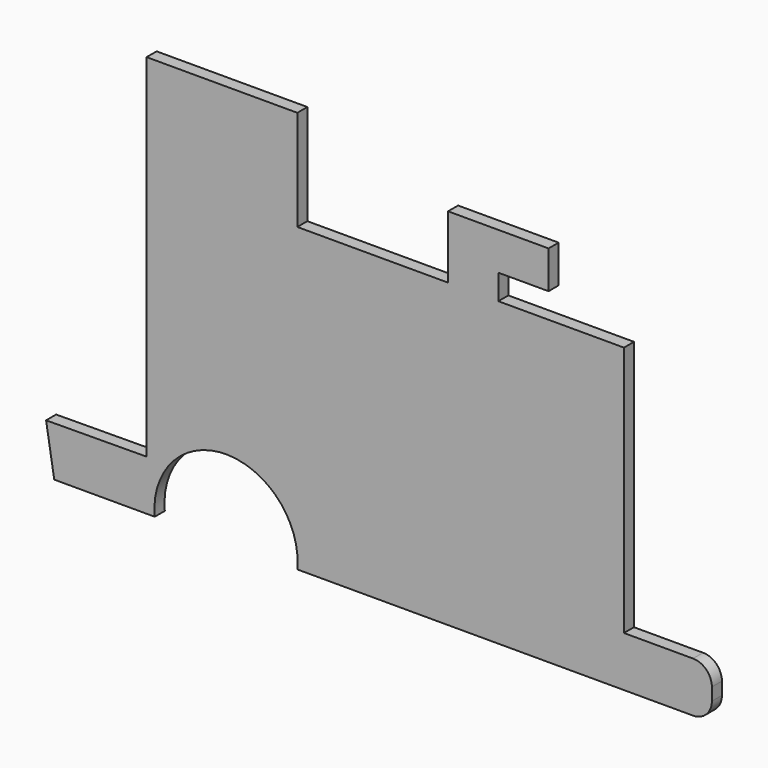
from build123d import *

# Parameters (mm, degrees)
F1_DEPTH = 5


with BuildPart() as f1:
    # F0 (on Front) → F1 (new body)
    with BuildSketch(Plane.XZ):
        with BuildLine():
            Line((-5, 89.492543), (-65, 89.492543))
            Line((-65, 89.492543), (-65, -50.507457))
            Line((-65, -50.507457), (-104.999123, -50.772287))
            Line((-104.999123, -50.772287), (-101.755198, -70.507457))
            Line((-101.755198, -70.507457), (-61.755198, -70.507457))
            ThreePointArc((-61.755198, -70.507457), (-36.016138, -39.49132), (-5, -65.23038))
            ThreePointArc((-5, -65.23038), (-4.877599, -67.868918), (-5, -70.507457))
            Line((-5, -70.507457), (125, -70.507457))
            Line((125, -70.507457), (152.5, -70.507457))
            ThreePointArc((152.5, -70.507457), (157.803301, -68.310758), (160, -63.007457))
            Line((160, -63.007457), (160, -58.007457))
            ThreePointArc((160, -58.007457), (157.803301, -52.704156), (152.5, -50.507457))
            Line((152.5, -50.507457), (125, -50.507457))
            Line((125, -50.507457), (125, -2.5))
            Line((125, -2.5), (125, 0))
            Line((125, 0), (125, 49.492543))
            Line((125, 49.492543), (75, 49.492543))
            Line((75, 49.492543), (75, 59.492543))
            Line((75, 59.492543), (95, 59.492543))
            Line((95, 59.492543), (95, 74.492543))
            Line((95, 74.492543), (55, 74.492543))
            Line((55, 74.492543), (55, 49.492543))
            Line((55, 49.492543), (-5, 49.492543))
            Line((-5, 49.492543), (-5, 89.492543))
        make_face()
    extrude(amount=F1_DEPTH)


solid = f1.part
